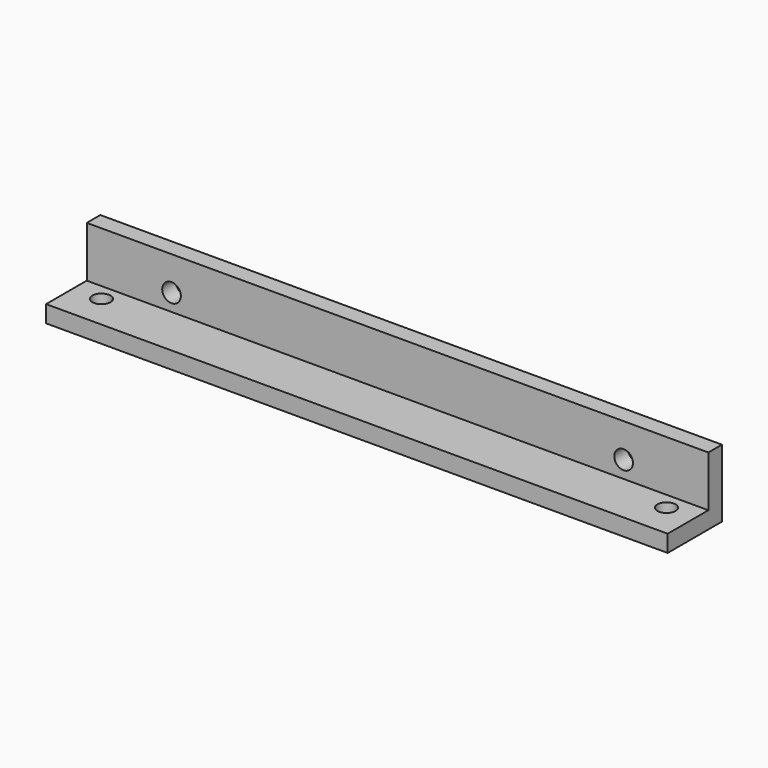
from build123d import *

# Parameters (mm, degrees)
F1_DEPTH = 55
F3_D     = 3.2
F5_D     = 3.3


with BuildPart() as f1:
    # F0 (on Right) → F1 (new body, symmetric)
    with BuildSketch(Plane.YZ):
        Polygon((-12, 0), (0, 0), (0, 12), (-3, 12), (-3, 3), (-12, 3), align=None)
    extrude(amount=F1_DEPTH, both=True)

    # F3 (through all)
    with Locations(Plane(origin=(0, 0, 0), x_dir=(1, 0, 0), z_dir=(0, 0, -1))):
        with Locations((-50, 6), (50, 6)):
            Hole(F3_D / 2)

    # F5 (through all)
    with Locations(Plane(origin=(0, 0, 0), x_dir=(-1, 0, 0), z_dir=(0, 1, 0))):
        with Locations((40, 6), (-40, 6)):
            Hole(F5_D / 2)


solid = f1.part
